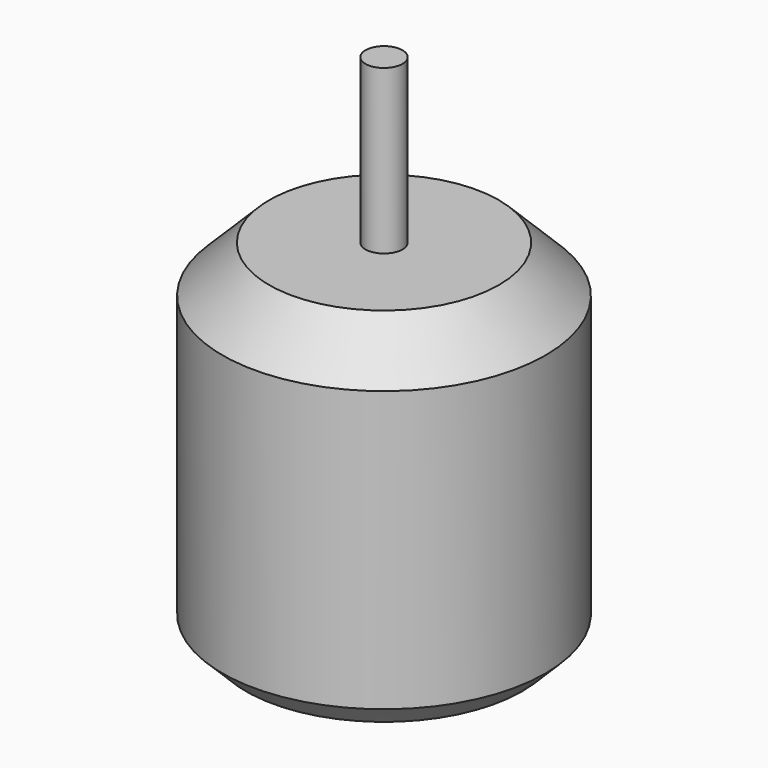
from build123d import *

# Parameters (mm, degrees)
F0_R     = 13.85
F1_DEPTH = 30
F2_SIZE  = 4
F3_R     = 1.5875
F4_DEPTH = 14
F5_SIZE  = 2
F6_R     = 1.5
F7_DEPTH = 5


with BuildPart() as f1:
    # F0 (on Top) → F1 (new body)
    with BuildSketch(Plane.XY):
        Circle(F0_R)
    extrude(amount=F1_DEPTH)

    # F2
    f2_edges = [f1.edges().sort_by_distance(p)[0] for p in [
        (-13.85, 0, 30),
    ]]
    chamfer(f2_edges, length=F2_SIZE)

    # F3 (on face) → F4 (join)
    with BuildSketch(Plane.XY.offset(30)):
        Circle(F3_R)
    extrude(amount=F4_DEPTH)

    # F5
    f5_edges = [f1.edges().sort_by_distance(p)[0] for p in [
        (-13.85, 0, 0),
    ]]
    chamfer(f5_edges, length=F5_SIZE)

    # F6 (on face) → F7 (cut)
    with BuildSketch(Plane(origin=(0, 0, 0), x_dir=(1, 0, 0), z_dir=(0, 0, -1))):
        with Locations((5.58971, -5.723211)):
            Circle(F6_R)
        with Locations((6.512679, 6.916286)):
            Circle(F6_R)
        with Locations((-5.601047, 5.712127)):
            Circle(F6_R)
        with Locations((-6.522529, -6.907005)):
            Circle(F6_R)
    extrude(amount=-F7_DEPTH, mode=Mode.SUBTRACT)


solid = f1.part
